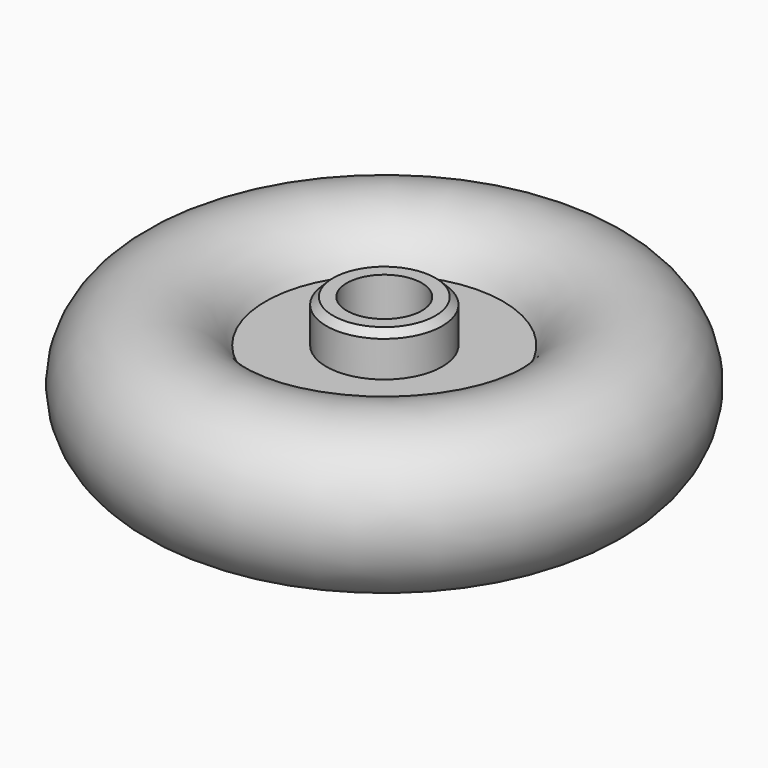
from build123d import *

# Parameters (mm, degrees)
F2_SIZE = 0.4


with BuildPart() as f1:
    # F0 (on Front) → F1 (revolve)
    with BuildSketch(Plane.XZ):
        with BuildLine():
            Line((2.2, -2), (6.968871, -2))
            ThreePointArc((6.968871, -2), (15.5, 0), (6.968871, 2))
            Line((6.968871, 2), (3.4, 2))
            Line((3.4, 2), (3.4, 4.5))
            Line((3.4, 4.5), (2.2, 4.5))
            Line((2.2, 4.5), (2.2, -2))
        make_face()
    revolve(axis=Axis((0, 0, -0.29173), (0, 0, -1)))

    # F2
    f2_edges = [f1.edges().sort_by_distance(p)[0] for p in [
        (-3.4, 0, 4.5),
    ]]
    chamfer(f2_edges, length=F2_SIZE)


solid = f1.part
